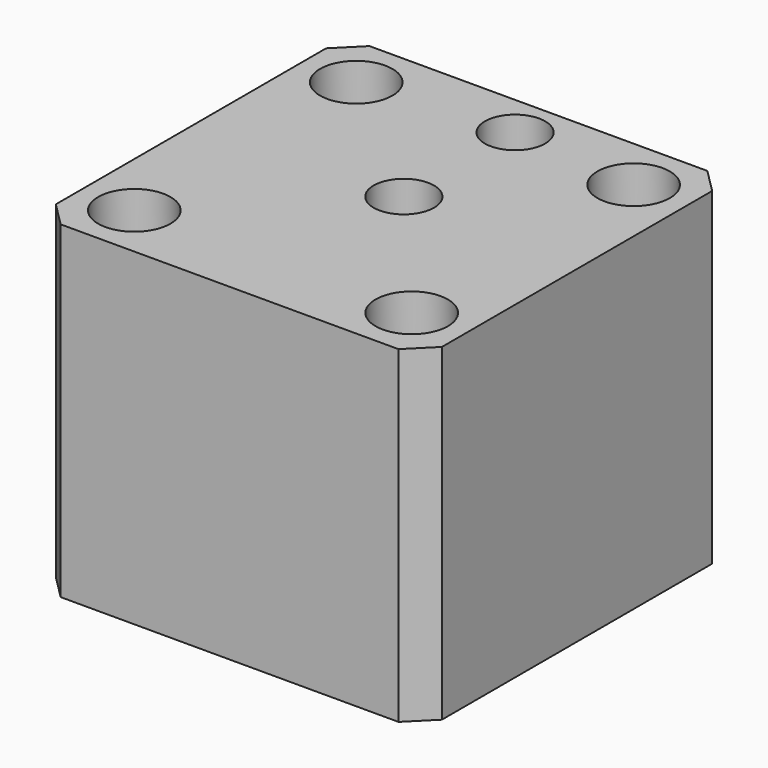
from build123d import *

# Parameters (mm, degrees)
F0_W           = 50.8
F0_H           = 43.18
F1_DEPTH       = 50.8
F3_D           = 6.35
F3_CBORE_D     = 9.525
F3_CBORE_DEPTH = 6.35
F5_D           = 7.9375
F6_SIZE        = 3.175


with BuildPart() as f1:
    # F0 (on Front) → F1 (new body)
    with BuildSketch(Plane.XZ):
        with Locations((25.4, -21.59)):
            Rectangle(F0_W, F0_H)
    extrude(amount=-F1_DEPTH)

    # F3 (through all)
    with Locations(Plane.XY):
        with Locations((7.1374, 7.1628), (7.1374, 43.6626), (43.6372, 43.6626), (43.6372, 7.1628)):
            CounterBoreHole(F3_D / 2, F3_CBORE_D / 2, F3_CBORE_DEPTH)

    # F5 (through all)
    with Locations(Plane.XY):
        with Locations((26.850944, 26.850944), (26.850944, 45.138944)):
            Hole(F5_D / 2)

    # F6
    f6_edges = [f1.edges().sort_by_distance(p)[0] for p in [
        (50.8, 50.8, -21.59),
        (50.8, 0, -21.59),
        (0, 50.8, -21.59),
        (0, 0, -21.59),
    ]]
    chamfer(f6_edges, length=F6_SIZE)


solid = f1.part
